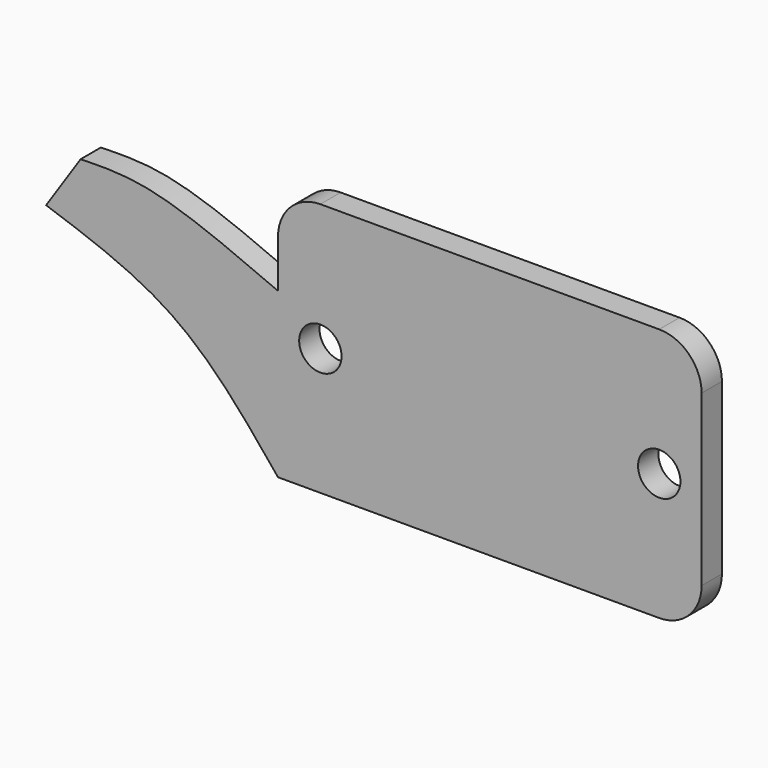
from build123d import *

# Parameters (mm, degrees)
F0_R     = 2.5
F1_DEPTH = 3


with BuildPart() as f1:
    # F0 (on Front) → F1 (new body)
    with BuildSketch(Plane.XZ):
        with BuildLine():
            Line((29.0986847878, 15), (-10.9013152122, 15))
            ThreePointArc((-10.9013152122, 15), (-14.4368491182, 13.5355339059), (-15.9013152122, 10))
            Line((-15.9013152122, 10), (-15.9013152122, 4.3667629361))
            add(Edge.make_bspline(
                [(-15.9013152122, 4.3667629361), (-21.3262252844, 6.7044301333), (-30.5998759105, 10.7005717427), (-36.6873094028, 10.5325111254), (-39.2137095332, 10.4627627879)],
                knots=[0, 0, 0, 0, 0.5849810707, 1, 1, 1, 1], degree=3))
            Line((-39.2137095332, 10.4627627879), (-43.2777144015, 4.3667629361))
            add(Edge.make_bspline(
                [(-15.9013152122, -15), (-19.6586178853, -10.3711344982), (-27.0962099205, -1.2082812004), (-37.9212425453, 2.5212876251), (-43.2777144015, 4.3667629361)],
                knots=[0, 0, 0, 0, 0.5051773014, 1, 1, 1, 1], degree=3))
            Line((-15.9013152122, -15), (29.0986847878, -15))
            ThreePointArc((29.0986847878, -15), (32.6342186937, -13.5355339059), (34.0986847878, -10))
            Line((34.0986847878, -10), (34.0986847878, 10))
            ThreePointArc((34.0986847878, 10), (32.6342186937, 13.5355339059), (29.0986847878, 15))
        make_face()
        with Locations((-10.9013152122, 0)):
            Circle(F0_R, mode=Mode.SUBTRACT)
        with Locations((29.0986847878, 0)):
            Circle(F0_R, mode=Mode.SUBTRACT)
    extrude(amount=F1_DEPTH)


solid = f1.part
